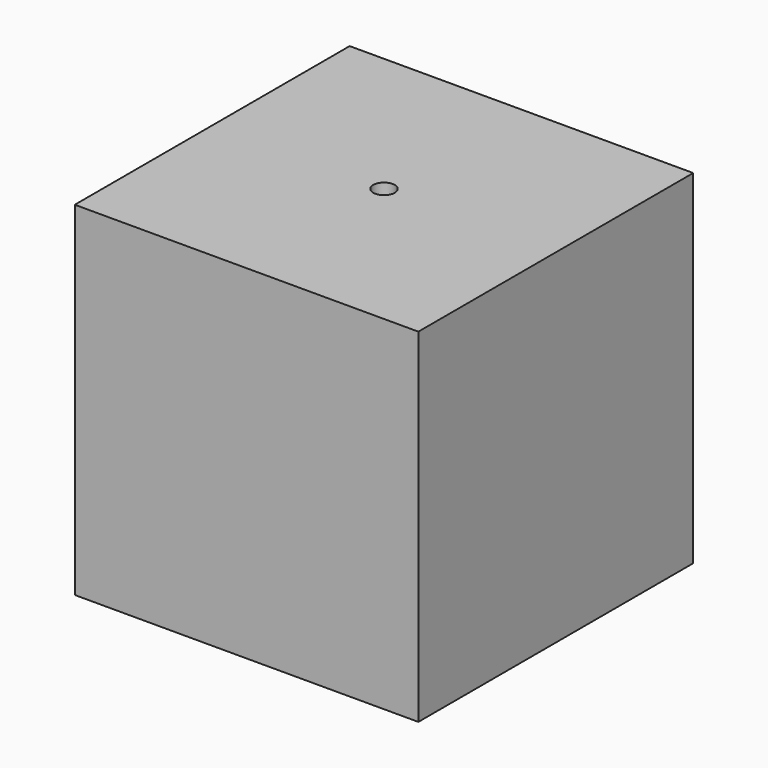
from build123d import *

# Parameters (mm, degrees)
F0_W     = 101.6
F0_H     = 101.6
F1_DEPTH = 50.8
F3_D     = 6.35


with BuildPart() as f1:
    # F0 (on Front) → F1 (new body, symmetric)
    with BuildSketch(Plane.XZ):
        Rectangle(F0_W, F0_H)
    extrude(amount=F1_DEPTH, both=True)

    # F3 (through all)
    with Locations(Plane.XY.offset(50.8)):
        with Locations((0, 0)):
            Hole(F3_D / 2)


solid = f1.part
